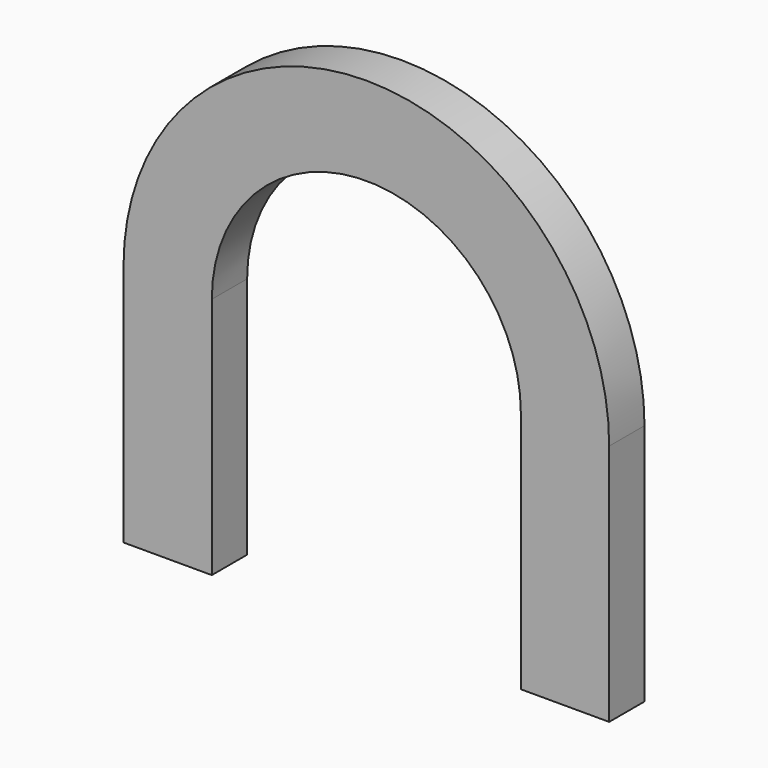
from build123d import *

# Parameters (mm, degrees)
F1_DEPTH = 25.4


with BuildPart() as f1:
    # F0 (on Front) → F1 (new body)
    with BuildSketch(Plane.XZ):
        with BuildLine():
            Line((139.7, -139.7), (139.7, 0))
            ThreePointArc((139.7, 0), (0, 139.7), (-139.7, 0))
            Line((-139.7, 0), (-139.7, -139.7))
            Line((-139.7, -139.7), (-88.9, -139.7))
            Line((-88.9, -139.7), (-88.9, 0))
            ThreePointArc((-88.9, 0), (0, 88.9), (88.9, 0))
            Line((88.9, 0), (88.9, -139.7))
            Line((88.9, -139.7), (139.7, -139.7))
        make_face()
    extrude(amount=F1_DEPTH)


solid = f1.part
